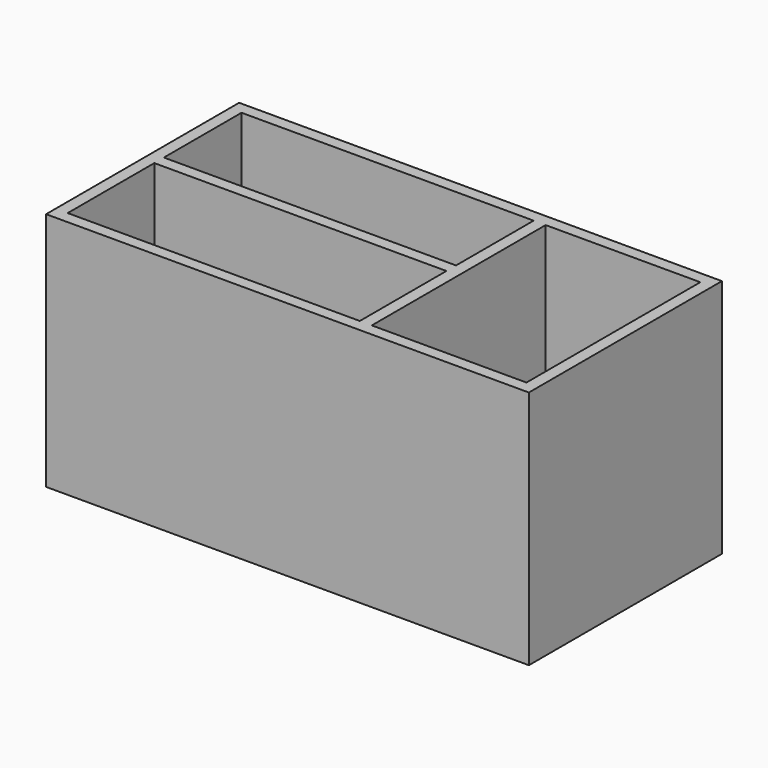
from build123d import *

# Parameters (mm, degrees)
F0_W     = 120.65
F0_H     = 60.3
F0_W_2   = 73
F0_H_2   = 27.05
F0_H_3   = 24.25
F0_W_3   = 38.65
F0_H_4   = 54.3
F1_DEPTH = 57
F2_W     = 120.65
F2_H     = 60.3
F2_W_2   = 73
F2_H_2   = 24.25
F2_H_3   = 27.05
F2_W_3   = 38.65
F2_H_4   = 54.3
F3_DEPTH = 3


with BuildPart() as f1:
    # F0 (on Top) → F1 (new body)
    with BuildSketch(Plane.XY):
        with Locations((-60.325, -30.15)):
            Rectangle(F0_W, F0_H)
        with Locations((-81.15, -43.775)):
            Rectangle(F0_W_2, F0_H_2, mode=Mode.SUBTRACT)
        with Locations((-81.15, -15.125)):
            Rectangle(F0_W_2, F0_H_3, mode=Mode.SUBTRACT)
        with Locations((-22.325, -30.15)):
            Rectangle(F0_W_3, F0_H_4, mode=Mode.SUBTRACT)
    extrude(amount=F1_DEPTH)

    # F2 (on face) → F3 (join)
    with BuildSketch(Plane(origin=(0, 0, 0), x_dir=(1, 0, 0), z_dir=(0, 0, -1))):
        with Locations((-60.325, 30.15)):
            Rectangle(F2_W, F2_H)
        with Locations((-81.15, 15.125)):
            Rectangle(F2_W_2, F2_H_2, mode=Mode.SUBTRACT)
        with Locations((-81.15, 43.775)):
            Rectangle(F2_W_2, F2_H_3, mode=Mode.SUBTRACT)
        with Locations((-22.325, 30.15)):
            Rectangle(F2_W_3, F2_H_4, mode=Mode.SUBTRACT)
        with Locations((-81.15, 43.775)):
            Rectangle(F2_W_2, F2_H_3)
        with Locations((-81.15, 15.125)):
            Rectangle(F2_W_2, F2_H_2)
        with Locations((-22.325, 30.15)):
            Rectangle(F2_W_3, F2_H_4)
    extrude(amount=F3_DEPTH)


solid = f1.part
